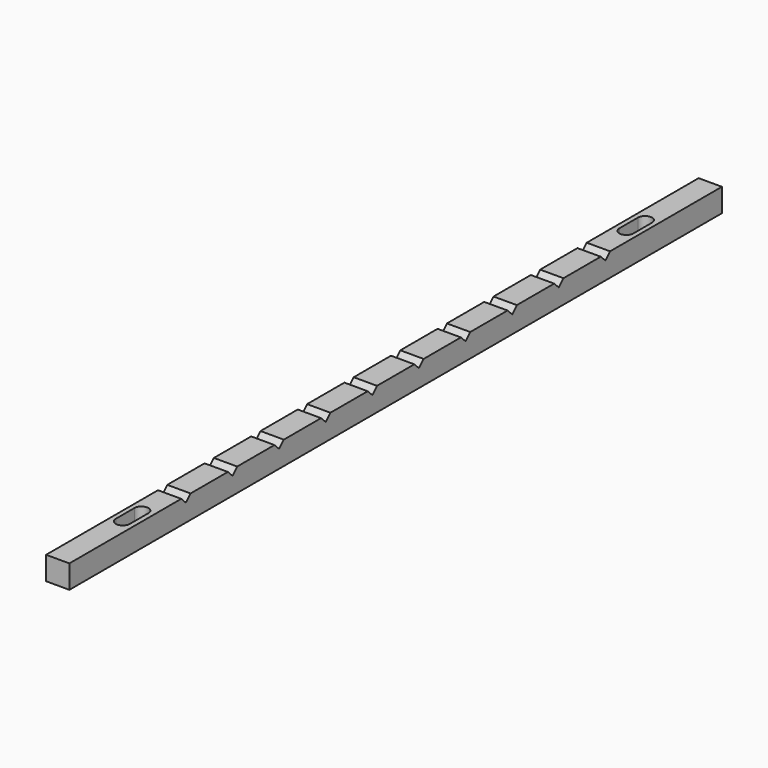
from build123d import *

# Parameters (mm, degrees)
F0_W     = 10
F0_H     = 10
F1_DEPTH = 350
F3_DEPTH = 25
F5_DEPTH = 10.001


with BuildPart() as f1:
    # F0 (on Front) → F1 (new body)
    with BuildSketch(Plane.XZ):
        with Locations((5, 5)):
            Rectangle(F0_W, F0_H)
    extrude(amount=F1_DEPTH)

    # F2 (on face) → F3 (cut)
    with BuildSketch(Plane(origin=(0, 0, 0), x_dir=(0, -1, 0), z_dir=(-1, 0, 0))):
        Polygon((62.5, 7.5), (65, 10), (60, 10), align=None)
        Polygon((87.5, 7.5), (90, 10), (85, 10), align=None)
        Polygon((112.5, 7.5), (115, 10), (110, 10), align=None)
        Polygon((137.5, 7.5), (140, 10), (135, 10), align=None)
        Polygon((162.5, 7.5), (165, 10), (160, 10), align=None)
        Polygon((187.5, 7.5), (190, 10), (185, 10), align=None)
        Polygon((212.5, 7.5), (215, 10), (210, 10), align=None)
        Polygon((237.5, 7.5), (240, 10), (235, 10), align=None)
        Polygon((262.5, 7.5), (265, 10), (260, 10), align=None)
        Polygon((287.5, 7.5), (290, 10), (285, 10), align=None)
    extrude(amount=-F3_DEPTH, mode=Mode.SUBTRACT)

    # F4 (on face) → F5 (cut, through all)
    with BuildSketch(Plane.XY.offset(10)):
        with BuildLine():
            Line((8, -45), (8, -35))
            ThreePointArc((8, -35), (5, -32), (2, -35))
            Line((2, -35), (2, -45))
            ThreePointArc((2, -45), (5, -48), (8, -45))
        make_face()
        with BuildLine():
            Line((7.916715, -315), (7.916715, -305))
            ThreePointArc((7.916715, -305), (4.916715, -302), (1.916715, -305))
            Line((1.916715, -305), (1.916715, -315))
            ThreePointArc((1.916715, -315), (4.916715, -318), (7.916715, -315))
        make_face()
    extrude(amount=-F5_DEPTH, mode=Mode.SUBTRACT)


solid = f1.part
